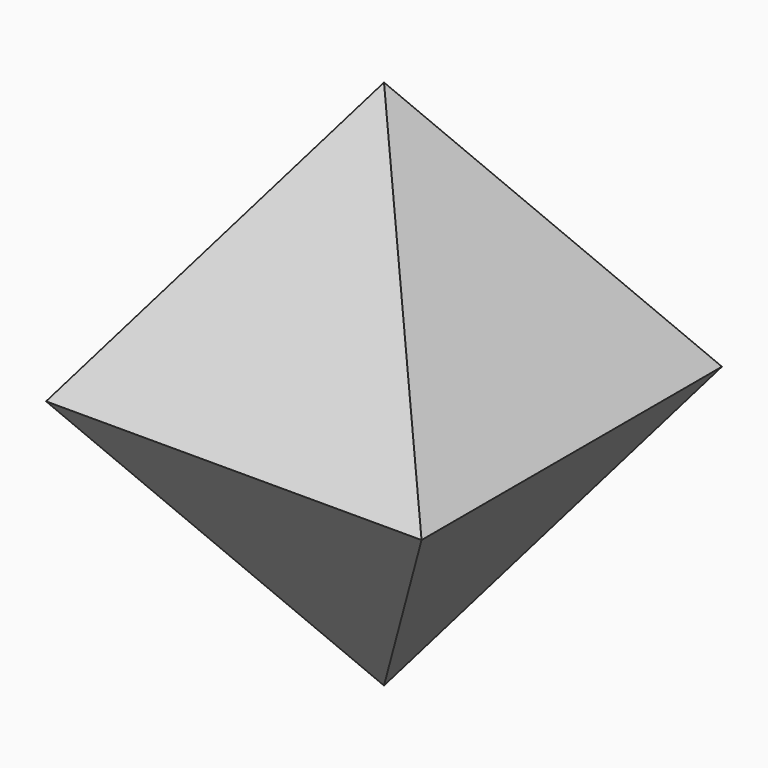
from build123d import *

# Parameters (mm, degrees)
F0_W = 25.4
F0_H = 25.4


with BuildPart() as f2:
    # F0 (on Top) → F2 section 0
    with BuildSketch(Plane.XY, mode=Mode.PRIVATE) as f2_s0:
        Rectangle(F0_W, F0_H)
    loft([f2_s0.sketch, Vertex(0, 0, 17.960512)])

    # F0 (on Top) → F3 section 0
    with BuildSketch(Plane.XY, mode=Mode.PRIVATE) as f3_s0:
        Rectangle(F0_W, F0_H)
    loft([f3_s0.sketch, Vertex(0, 0, -17.960512)])


solid = f2.part
